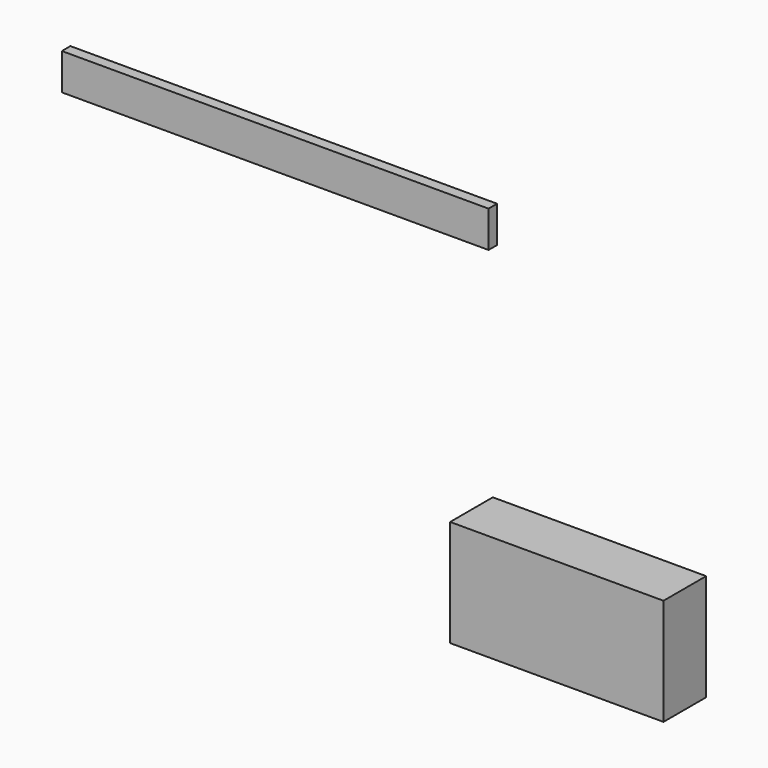
from build123d import *

# Parameters (mm, degrees)
F0_W     = 25.4
F0_H     = 12.7
F1_DEPTH = 6.35
F2_W     = 50.8
F2_H     = 4.334929
F3_DEPTH = 0.635


with BuildPart() as f1:
    # F0 (on Front) → F1 (new body)
    with BuildSketch(Plane.XZ):
        with Locations((12.7, 6.35)):
            Rectangle(F0_W, F0_H)
    extrude(amount=F1_DEPTH)


with BuildPart() as f3:
    # F2 (on Front) → F3 (new body, symmetric)
    with BuildSketch(Plane.XZ):
        with Locations((-25.4, 41.046399)):
            Rectangle(F2_W, F2_H)
    extrude(amount=F3_DEPTH, both=True)


solid = Compound([f1.part, f3.part])
